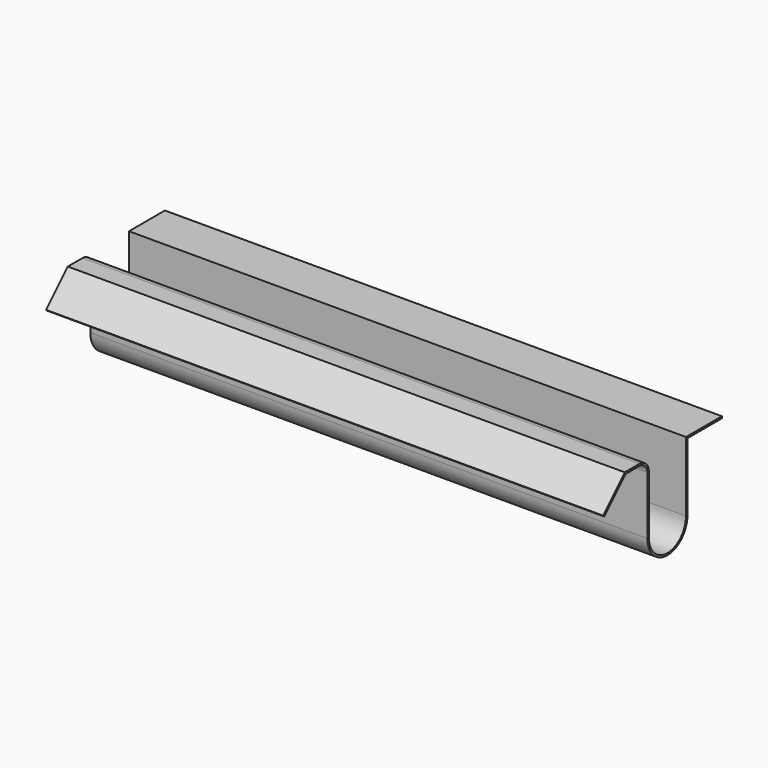
from build123d import *

# Parameters (mm, degrees)
F1_DEPTH = 38.1


with BuildPart() as f1:
    # F0 (on Right) → F1 (new body, symmetric)
    with BuildSketch(Plane.YZ):
        with BuildLine():
            Line((-20.306327, 29.995541), (-22.820927, 29.995541))
            Line((-22.820927, 29.995541), (-26.529327, 26.287141))
            Line((-26.529327, 26.287141), (-26.349722, 26.107536))
            Line((-26.349722, 26.107536), (-22.715717, 29.741541))
            Line((-22.715717, 29.741541), (-20.306327, 29.741541))
            ThreePointArc((-20.306327, 29.741541), (-19.35442, 29.347248), (-18.960127, 28.395341))
            Line((-18.960127, 28.395341), (-18.960127, 20.470541))
            ThreePointArc((-18.960127, 20.470541), (-15.531127, 17.041541), (-12.102127, 20.470541))
            Line((-12.102127, 20.470541), (-12.102127, 29.741541))
            Line((-12.102127, 29.741541), (-6.209327, 29.741541))
            Line((-6.209327, 29.741541), (-6.209327, 29.995541))
            Line((-6.209327, 29.995541), (-12.356127, 29.995541))
            Line((-12.356127, 29.995541), (-12.356127, 20.470541))
            ThreePointArc((-12.356127, 20.470541), (-15.531127, 17.295541), (-18.706127, 20.470541))
            Line((-18.706127, 20.470541), (-18.706127, 28.395341))
            ThreePointArc((-18.706127, 28.395341), (-19.174815, 29.526853), (-20.306327, 29.995541))
        make_face()
    extrude(amount=F1_DEPTH, both=True)


solid = f1.part
